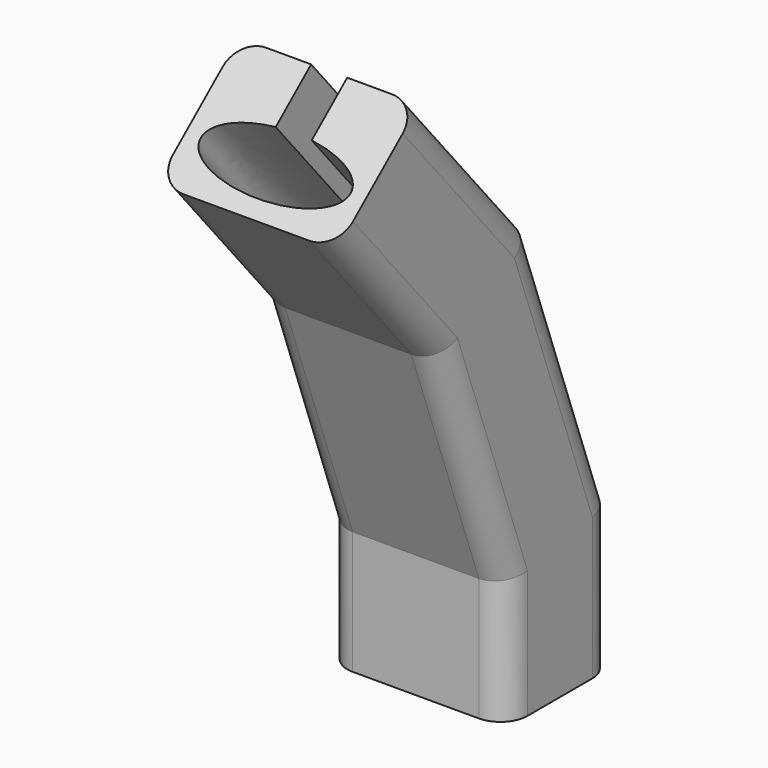
from build123d import *


with BuildPart() as f2:
    # F2: sweep along a path in F1
    with BuildLine(Plane.YZ) as f2_path:
        Line((0, 0), (0, 30))
        Line((0, 30), (-20.5212085995, 86.3815572472))
        Line((-20.5212085995, 86.3815572472), (-50.5212085995, 122.134165025))
    # F0 (on Top) → F2 (sweep)
    with BuildSketch(Plane.XY):
        with BuildLine():
            Line((-14, -15), (14, -15))
            ThreePointArc((14, -15), (18.2426406871, -13.2426406871), (20, -9))
            Line((20, -9), (20, 9))
            ThreePointArc((20, 9), (18.2426406871, 13.2426406871), (14, 15))
            Line((14, 15), (4, 15))
            Line((4, 15), (4, 2.1593614055))
            add(Edge.make_bspline(
                [(-4, 2.1593614055), (-27.382723871, -0.1854807252), (-13.6913619355, -8.2115012982), (0, -16.2375218712), (13.6913619355, -8.2115012982), (27.382723871, -0.1854807252), (4, 2.1593614055)],
                knots=[4.9551445309, 4.9551445309, 4.9551445309, 6.8877025996, 6.8877025996, 8.8202606683, 8.8202606683, 10.752818737, 10.752818737, 10.752818737], degree=2, weights=[1, 0.568364982, 1, 0.568364982, 1, 0.568364982, 1]))
            Line((-4, 2.1593614055), (-4, 15))
            Line((-4, 15), (-14, 15))
            ThreePointArc((-14, 15), (-18.2426406871, 13.2426406871), (-20, 9))
            Line((-20, 9), (-20, -9))
            ThreePointArc((-20, -9), (-18.2426406871, -13.2426406871), (-14, -15))
        make_face()
    sweep(path=f2_path.line, transition=Transition.RIGHT)


solid = f2.part
